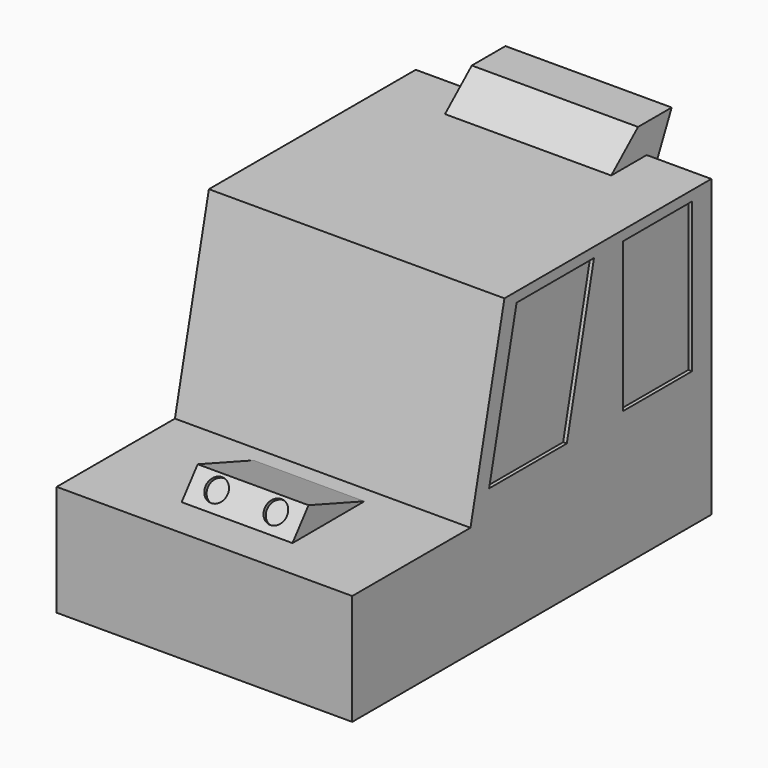
from build123d import *

# Parameters (mm, degrees)
F1_DEPTH = 40
F3_DEPTH = 22.5
F5_DEPTH = 15
F6_R     = 3
F7_DEPTH = 1
F8_W     = 23.385154
F8_H     = 40.474307
F9_DEPTH = 1


with BuildPart() as f1:
    # F0 (on Right) → F1 (new body, symmetric)
    with BuildSketch(Plane.YZ):
        Polygon((35.49702, 43.180404), (-34.50298, 43.180404), (-45.997234, -6.819596), (-85.997234, -6.819596), (-85.997234, -36.819596), (35.49702, -36.819596), align=None)
    extrude(amount=F1_DEPTH, both=True)

    # F2 (on Right) → F3 (join, symmetric)
    with BuildSketch(Plane.YZ):
        Polygon((35.575308, 43.072656), (35.575308, 33.278871), (43.969978, 51.067576), (32.577209, 51.067576), (23.383051, 43.072656), align=None)
    extrude(amount=F3_DEPTH, both=True)

    # F4 (on Right) → F5 (join, symmetric)
    with BuildSketch(Plane.YZ):
        Polygon((-74.98049, -6.83292), (-50.600782, -6.762254), (-69.539219, 0), align=None)
    extrude(amount=F5_DEPTH, both=True)

    # F6 (on face) → F7 (cut)
    with BuildSketch(Plane(origin=(0, -42.553907, 33.887025), x_dir=(1, 0, 0), z_dir=(0, -0.782267, 0.622944))):
        with Locations((-8, -47.068199)):
            Circle(F6_R)
        with Locations((8.026602, -47.068199)):
            Circle(F6_R)
    extrude(amount=-F7_DEPTH, mode=Mode.SUBTRACT)

    # F8 (on face) → F9 (cut)
    with BuildSketch(Plane.YZ.offset(40)):
        Polygon((-4.19944, 40.474307), (-30.382816, 40.474307), (-39.687255, 0), (-13.393601, 0), align=None)
        with Locations((17.28692, 20.237153)):
            Rectangle(F8_W, F8_H)
    extrude(amount=-F9_DEPTH, mode=Mode.SUBTRACT)


solid = f1.part
